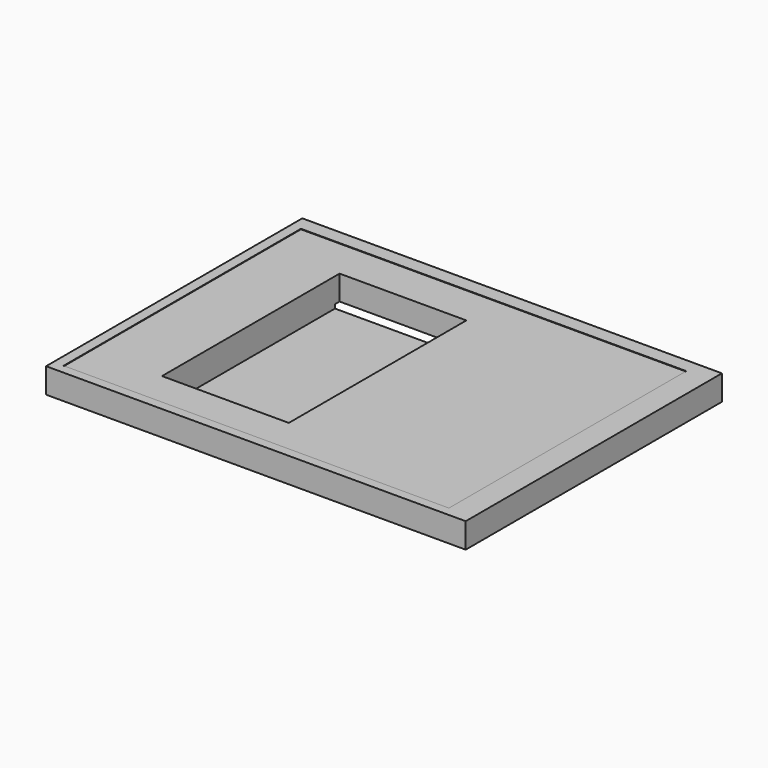
from build123d import *

# Parameters (mm, degrees)
F0_W     = 435
F0_H     = 332
F1_DEPTH = 26
F2_W     = 399.4
F2_H     = 307.5
F3_DEPTH = 0.5
F4_W     = 290
F4_H     = 190
F5_DEPTH = 32
F6_W     = 45.65622
F6_H     = 10.88232
F7_DEPTH = 5
F8_W     = 131.441295
F8_H     = 230.077163
F9_DEPTH = 30


with BuildPart() as f1:
    # F0 (on Top) → F1 (new body)
    with BuildSketch(Plane.XY):
        Rectangle(F0_W, F0_H)
    extrude(amount=F1_DEPTH)

    # F2 (on face) → F3 (cut)
    with BuildSketch(Plane.XY.offset(26)):
        with Locations((-7.2, -2.75)):
            Rectangle(F2_W, F2_H)
    extrude(amount=-F3_DEPTH, mode=Mode.SUBTRACT)

    # F4 (on face) → F5 (join)
    with BuildSketch(Plane.XY):
        with Locations((-22.5, 9)):
            Rectangle(F4_W, F4_H)
    extrude(amount=-F5_DEPTH)

    # F6 (on face) → F7 (cut)
    with BuildSketch(Plane(origin=(0, 104, 0), x_dir=(-1, 0, 0), z_dir=(0, 1, 0))):
        with Locations((45.32811, -15.279424)):
            Rectangle(F6_W, F6_H)
    extrude(amount=-F7_DEPTH, mode=Mode.SUBTRACT)

    # F8 (on face) → F9 (cut)
    with BuildSketch(Plane.XY.offset(26)):
        with Locations((-68.291783, -5.109631)):
            Rectangle(F8_W, F8_H)
    extrude(amount=-F9_DEPTH, mode=Mode.SUBTRACT)


solid = f1.part
